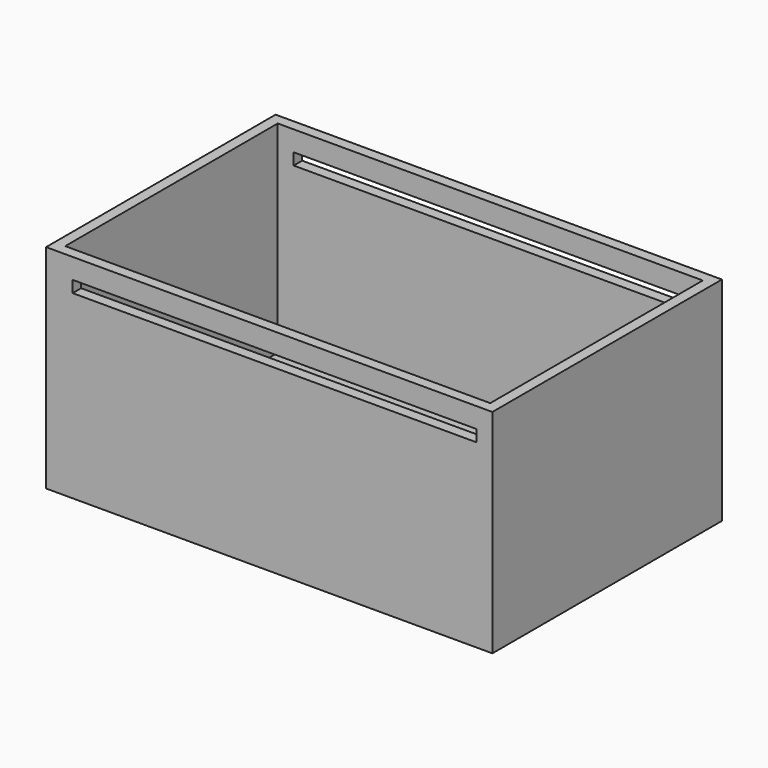
from build123d import *

# Parameters (mm, degrees)
SKETCH011_W     = 84
SKETCH011_H     = 54
SKETCH011_R     = 6
SKETCH011_W_2   = 3
SKETCH011_H_2   = 25
PAD004_DEPTH    = 2
SKETCH012_W     = 84
SKETCH012_H     = 54
SKETCH012_W_2   = 80
SKETCH012_H_2   = 50
PAD005_DEPTH    = 38
SKETCH013_W     = 76
SKETCH013_H     = 2.2
POCKET007_DEPTH = 54.001


with BuildPart() as part:
    # Sketch011 (on XY_Plane005 of Origin010) → Pad004 (new body)
    with BuildSketch(Plane.XY):
        with Locations((42, -27)):
            Rectangle(SKETCH011_W, SKETCH011_H)
        with Locations((25.609009, -11.632301)):
            Circle(SKETCH011_R, mode=Mode.SUBTRACT)
        with Locations((25.479133, -35.686392)):
            Rectangle(SKETCH011_W_2, SKETCH011_H_2, mode=Mode.SUBTRACT)
    extrude(amount=PAD004_DEPTH)

    # Sketch012 (on Face11 of Pad004) → Pad005 (join)
    with BuildSketch(Plane.XY.offset(2)):
        with Locations((42, -27)):
            Rectangle(SKETCH012_W, SKETCH012_H)
        with Locations((42, -27)):
            Rectangle(SKETCH012_W_2, SKETCH012_H_2, mode=Mode.SUBTRACT)
    extrude(amount=PAD005_DEPTH)

    # Sketch013 (on Face14 of Pad005) → Pocket007 (cut, through all)
    with BuildSketch(Plane(origin=(0, 0, 0), x_dir=(-1, 0, 0), z_dir=(0, 1, 0))):
        with Locations((-43, 35.1)):
            Rectangle(SKETCH013_W, SKETCH013_H)
    extrude(amount=-POCKET007_DEPTH, mode=Mode.SUBTRACT)


solid = part.part
